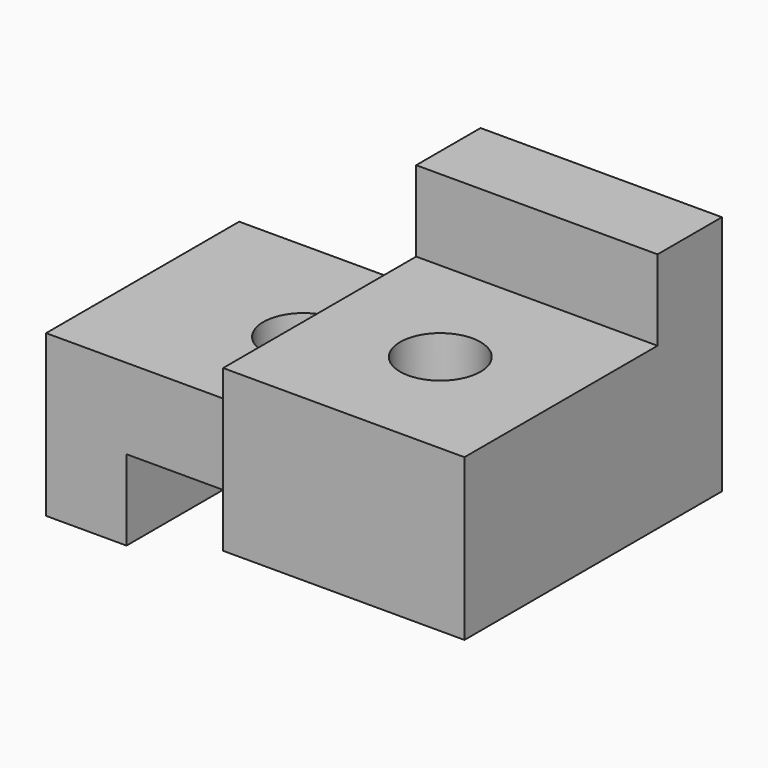
from build123d import *

# Parameters (mm, degrees)
F0_W      = 19.05
F0_H      = 25.4
F1_DEPTH  = 19.05
F2_W      = 19.05
F2_H      = 19.05
F3_DEPTH  = 6.35
F4_R      = 3.175
F5_DEPTH  = 12.701
F6_W      = 19.05
F6_H      = 6.35
F7_DEPTH  = 19.05
F8_W      = 6.35
F8_H      = 19.05
F9_DEPTH  = 6.35
F10_R     = 3.175
F11_DEPTH = 12.701


with BuildPart() as f1:
    # F0 (on Top) → F1 (new body)
    with BuildSketch(Plane.XY):
        with Locations((9.525, 12.7)):
            Rectangle(F0_W, F0_H)
    extrude(amount=F1_DEPTH)

    # F2 (on face) → F3 (cut)
    with BuildSketch(Plane.XY.offset(19.05)):
        with Locations((9.525, 9.525)):
            Rectangle(F2_W, F2_H)
    extrude(amount=-F3_DEPTH, mode=Mode.SUBTRACT)

    # F4 (on face) → F5 (cut, through all)
    with BuildSketch(Plane.XY.offset(12.7)):
        with Locations((9.525, 9.525)):
            Circle(F4_R)
    extrude(amount=-F5_DEPTH, mode=Mode.SUBTRACT)

    # F6 (on face) → F7 (join)
    with BuildSketch(Plane(origin=(0, 0, 0), x_dir=(0, -1, 0), z_dir=(-1, 0, 0))):
        with Locations((-15.875, 3.175)):
            Rectangle(F6_W, F6_H)
    extrude(amount=F7_DEPTH)

    # F8 (on face) → F9 (join)
    with BuildSketch(Plane(origin=(0, 0, 0), x_dir=(1, 0, 0), z_dir=(0, 0, -1))):
        with Locations((-15.875, -15.875)):
            Rectangle(F8_W, F8_H)
    extrude(amount=F9_DEPTH)

    # F10 (on face) → F11 (cut, through all)
    with BuildSketch(Plane.XY.offset(6.35)):
        with Locations((-6.35, 15.875)):
            Circle(F10_R)
    extrude(amount=-F11_DEPTH, mode=Mode.SUBTRACT)


solid = f1.part
